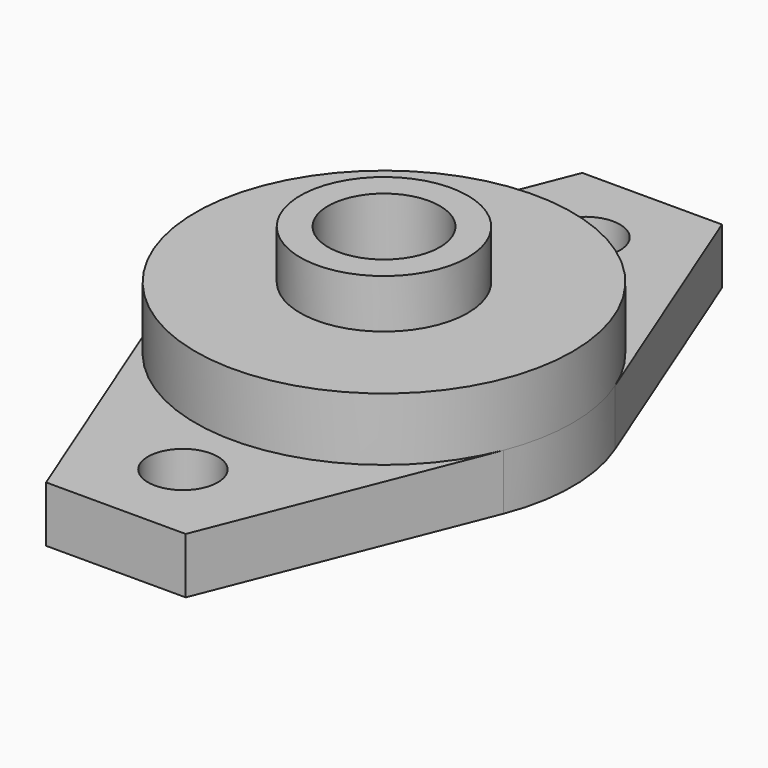
from build123d import *

# Parameters (mm, degrees)
SKETCH_R          = 6
PAD_DEPTH         = 12
SKETCH001_R       = 2.5
PAD001_DEPTH      = 4
SKETCH002_R       = 13.5
PAD002_DEPTH      = 8.5
SKETCH003_R       = 4
POCKET_DEPTH      = 0.001
POCKET_DEPTH_BACK = 12.001


with BuildPart() as part:
    # Sketch → Pad (new body)
    with BuildSketch(Plane.XY):
        Circle(SKETCH_R)
    extrude(amount=PAD_DEPTH)

    # Sketch001 → Pad001 (join)
    with BuildSketch(Plane.XY):
        with BuildLine():
            ThreePointArc((12.548063, -4.97957), (13.5, 0), (12.548063, 4.97957))
            Line((5, 24), (12.548063, 4.97957))
            Line((-5, 24), (5, 24))
            Line((-5, 24), (-12.548063, 4.97957))
            ThreePointArc((-12.548063, 4.97957), (-13.5, -1.3e-05), (-12.548053, -4.979595))
            Line((-5, -24), (-12.548053, -4.979595))
            Line((-5, -24), (5, -24))
            Line((5, -24), (12.548063, -4.97957))
        make_face()
        with Locations((0, 18)):
            Circle(SKETCH001_R, mode=Mode.SUBTRACT)
        with Locations((0, -18)):
            Circle(SKETCH001_R, mode=Mode.SUBTRACT)
    extrude(amount=PAD001_DEPTH)

    # Sketch002 → Pad002 (join)
    with BuildSketch(Plane.XY):
        Circle(SKETCH002_R)
    extrude(amount=PAD002_DEPTH)

    # Sketch003 → Pocket (cut, two sides)
    with BuildSketch(Plane.XY) as pocket_sk:
        Circle(SKETCH003_R)
    extrude(amount=-POCKET_DEPTH, mode=Mode.SUBTRACT)
    extrude(pocket_sk.sketch, amount=POCKET_DEPTH_BACK, mode=Mode.SUBTRACT)


solid = part.part
